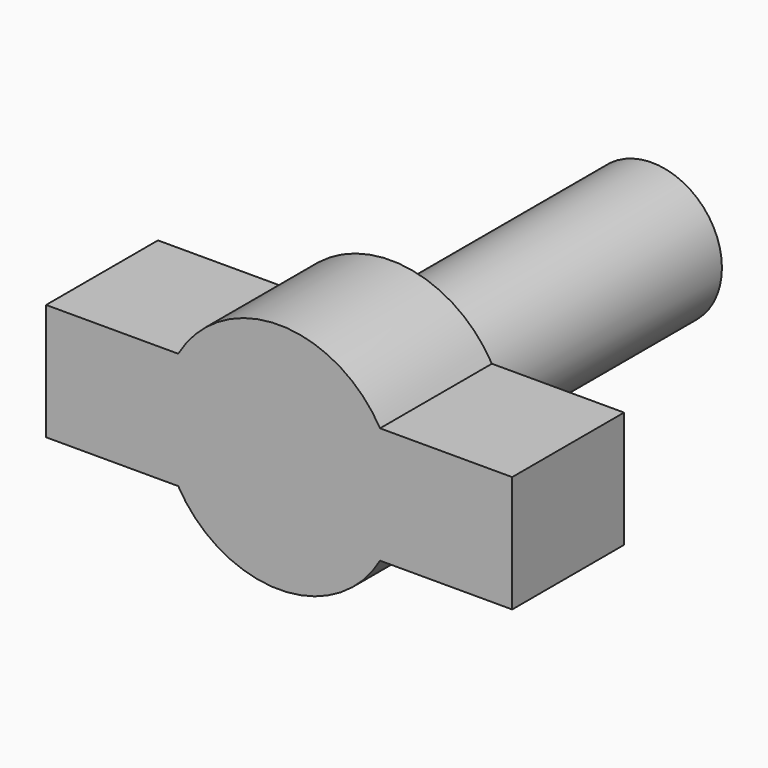
from build123d import *

# Parameters (mm, degrees)
F0_R     = 1.5
F1_DEPTH = 7
F3_DEPTH = 3


with BuildPart() as f1:
    # F0 (on Front) → F1 (new body)
    with BuildSketch(Plane.XZ):
        Circle(F0_R)
    extrude(amount=F1_DEPTH)

    # F2 (on face) → F3 (join)
    with BuildSketch(Plane.XZ.offset(7)):
        with BuildLine():
            ThreePointArc((2.1650635095, -1.25), (2.4148145657, -0.6470476128), (2.5, 0))
            ThreePointArc((2.5, 0), (2.4148145657, 0.6470476128), (2.1650635095, 1.25))
            Line((2.1650635095, 1.25), (-2.1650635095, 1.25))
            ThreePointArc((-2.1650635095, 1.25), (-2.5, 0), (-2.1650635095, -1.25))
            Line((-2.1650635095, -1.25), (2.1650635095, -1.25))
        make_face()
        with BuildLine():
            ThreePointArc((2.1650635095, 1.25), (2.4148145657, 0.6470476128), (2.5, 0))
            ThreePointArc((2.5, 0), (2.4148145657, -0.6470476128), (2.1650635095, -1.25))
            Line((2.1650635095, -1.25), (5, -1.25))
            Line((5, -1.25), (5, 1.25))
            Line((5, 1.25), (2.1650635095, 1.25))
        make_face()
        with BuildLine():
            Line((-2.1650635095, 1.25), (2.1650635095, 1.25))
            ThreePointArc((2.1650635095, 1.25), (0, 2.5), (-2.1650635095, 1.25))
        make_face()
        with BuildLine():
            ThreePointArc((-2.1650635095, -1.25), (0, -2.5), (2.1650635095, -1.25))
            Line((2.1650635095, -1.25), (-2.1650635095, -1.25))
        make_face()
        with BuildLine():
            ThreePointArc((-2.1650635095, -1.25), (-2.5, 0), (-2.1650635095, 1.25))
            Line((-2.1650635095, 1.25), (-5, 1.25))
            Line((-5, 1.25), (-5, -1.25))
            Line((-5, -1.25), (-2.1650635095, -1.25))
        make_face()
    extrude(amount=F3_DEPTH)


solid = f1.part
